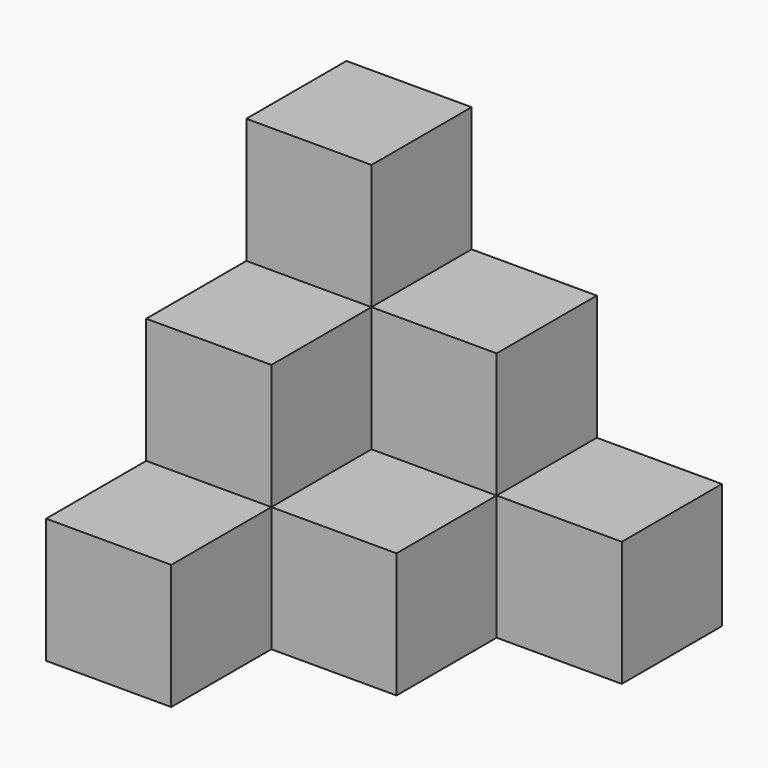
from build123d import *

# Parameters (mm, degrees)
BOX_W        = 10
BOX_H        = 10
BOX_DEPTH    = 30
BOX001_W     = 10
BOX001_H     = 10
BOX001_DEPTH = 20
BOX002_W     = 10
BOX002_H     = 10
BOX002_DEPTH = 20
BOX003_W     = 10
BOX003_H     = 10
BOX003_DEPTH = 10
BOX004_W     = 10
BOX004_H     = 10
BOX004_DEPTH = 10
BOX005_W     = 10
BOX005_H     = 10
BOX005_DEPTH = 10


with BuildPart() as cub:
    # Box → Box (new body)
    with BuildSketch(Plane.XY):
        with Locations((5, 5)):
            Rectangle(BOX_W, BOX_H)
    extrude(amount=BOX_DEPTH)


with BuildPart() as cub001:
    # Box001 → Box001 (new body)
    with BuildSketch(Plane(origin=(10, 0, 0), x_dir=(1, 0, 0), z_dir=(0, 0, 1))):
        with Locations((5, 5)):
            Rectangle(BOX001_W, BOX001_H)
    extrude(amount=BOX001_DEPTH)


with BuildPart() as cub002:
    # Box002 → Box002 (new body)
    with BuildSketch(Plane(origin=(0, -10, 0), x_dir=(1, 0, 0), z_dir=(0, 0, 1))):
        with Locations((5, 5)):
            Rectangle(BOX002_W, BOX002_H)
    extrude(amount=BOX002_DEPTH)


with BuildPart() as cub003:
    # Box003 → Box003 (new body)
    with BuildSketch(Plane(origin=(10, -10, 0), x_dir=(1, 0, 0), z_dir=(0, 0, 1))):
        with Locations((5, 5)):
            Rectangle(BOX003_W, BOX003_H)
    extrude(amount=BOX003_DEPTH)


with BuildPart() as cub004:
    # Box004 → Box004 (new body)
    with BuildSketch(Plane(origin=(0, -20, 0), x_dir=(1, 0, 0), z_dir=(0, 0, 1))):
        with Locations((5, 5)):
            Rectangle(BOX004_W, BOX004_H)
    extrude(amount=BOX004_DEPTH)


with BuildPart() as cub005:
    # Box005 → Box005 (new body)
    with BuildSketch(Plane(origin=(20, 0, 0), x_dir=(1, 0, 0), z_dir=(0, 0, 1))):
        with Locations((5, 5)):
            Rectangle(BOX005_W, BOX005_H)
    extrude(amount=BOX005_DEPTH)


solid = Compound([cub.part, cub001.part, cub002.part, cub003.part, cub004.part, cub005.part])
